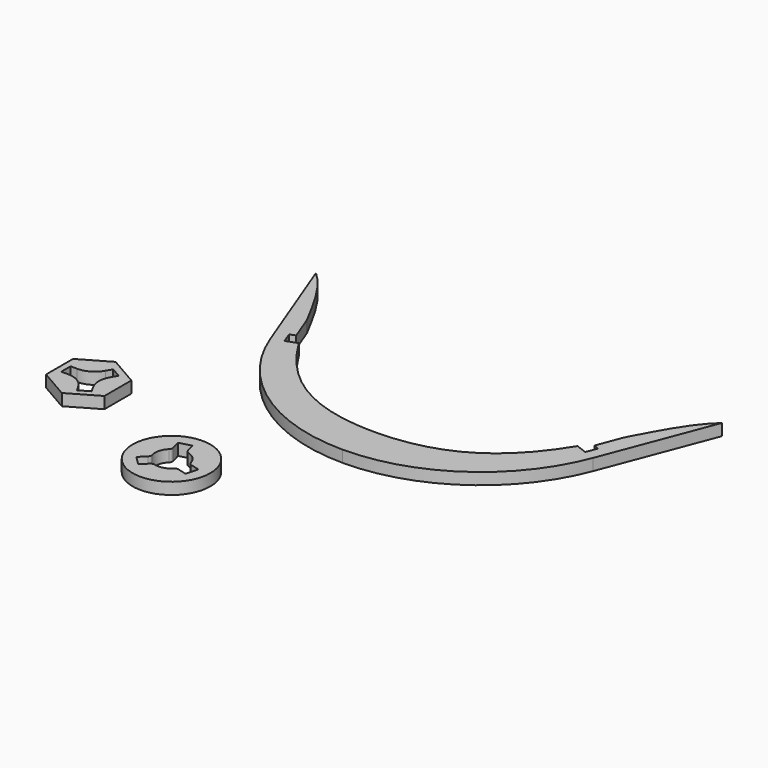
from build123d import *

# Parameters (mm, degrees)
F1_DEPTH = 3
F2_R     = 6
F5_DEPTH = 3
F6_R     = 9.9948698969
F7_DEPTH = 3
F8_R     = 1


with BuildPart() as f1:
    # F0 (on Top) → F1 (new body)
    with BuildSketch(Plane.XY):
        with BuildLine():
            add(Edge.make_bspline(
                [(-52.1936073571, 46.6457645564), (-47.6554851248, 42.5900153585), (-44.4048403776, 36.2283632752), (-40.8247886844, 29.4929830615)],
                knots=[0, 0, 0, 0, 22.7977816795, 22.7977816795, 22.7977816795, 22.7977816795], degree=3))
            Line((-52.1936073571, 46.6457645564), (-41.4603734854, 18.5455618145))
            ThreePointArc((-41.4603734854, 18.5455618145), (-25.1684905629, -2.1735358695), (0, -10))
            Line((0, -10), (0, 0))
            add(Edge.make_bspline(
                [(-0.0969811924, 8.0723e-05), (-0.0646814008, 2.69207e-05), (-0.0323543475, 0), (0, 0)],
                knots=[69.9378881624, 69.9378881624, 69.9378881624, 69.9378881624, 70, 70, 70, 70], degree=3))
            add(Edge.make_bspline(
                [(-35.8553334484, 20.6864789506), (-29.041090153, 9.7405323449), (-19.4753714242, 0.0323596164), (-0.0969811924, 8.0723e-05)],
                knots=[32.6736407865, 32.6736407865, 32.6736407865, 32.6736407865, 69.9378881624, 69.9378881624, 69.9378881624, 69.9378881624], degree=3))
            Line((-35.8553334484, 20.6864789506), (-37.2565934576, 20.1512496665))
            Line((-37.2565934576, 20.1512496665), (-38.6578534669, 19.6160203825))
            Line((-38.6578534669, 19.6160203825), (-39.7283120349, 22.418540401))
            Line((-39.7283120349, 22.418540401), (-38.3270520257, 22.953769685))
            Line((-38.3270520257, 22.953769685), (-40.8247886844, 29.4929830615))
        make_face()
    extrude(amount=F1_DEPTH)

    # F2
    f2_edges = [f1.edges().sort_by_distance(p)[0] for p in [
        (-40.824789, 29.492983, 1.5),
    ]]
    fillet(f2_edges, radius=F2_R)

    # F3: F1 across face


with BuildPart() as f1_1:
    add(f1.part)
    add(f1.part.mirror(Plane(origin=(0, -5, 1.5), x_dir=(0, 1, 0), z_dir=(1, 0, 0))))


with BuildPart() as f5:
    # F4 (on Top) → F5 (new body)
    with BuildSketch(Plane.XY):
        Polygon((-51.952010545, -12.999056554), (-59.452010545, -8.6689295351), (-66.952010545, -12.999056554), (-66.952010545, -21.6593105919), (-59.452010545, -25.9894376108), (-51.952010545, -21.6593105919), align=None)
        with BuildLine():
            ThreePointArc((-63.6840613526, -15.829183573), (-60.7510486507, -15.079183573), (-58.6350232469, -12.9141200635))
            Line((-58.6350232469, -12.9141200635), (-57.8180359488, -11.499056554))
            Line((-57.8180359488, -11.499056554), (-55.2199597374, -12.999056554))
            Line((-55.2199597374, -12.999056554), (-56.0369470355, -14.4141200635))
            ThreePointArc((-56.0369470355, -14.4141200635), (-56.8539343336, -17.329183573), (-56.0369470355, -20.2442470824))
            Line((-56.0369470355, -20.2442470824), (-55.2199597374, -21.6593105919))
            Line((-55.2199597374, -21.6593105919), (-57.8180359488, -23.1593105919))
            Line((-57.8180359488, -23.1593105919), (-58.6350232469, -21.7442470824))
            ThreePointArc((-58.6350232469, -21.7442470824), (-60.7510486507, -19.579183573), (-63.6840613526, -18.829183573))
            Line((-63.6840613526, -18.829183573), (-65.3180359488, -18.829183573))
            Line((-65.3180359488, -18.829183573), (-65.3180359488, -15.829183573))
            Line((-65.3180359488, -15.829183573), (-63.6840613526, -15.829183573))
        make_face(mode=Mode.SUBTRACT)
    extrude(amount=F5_DEPTH)


with BuildPart() as f7:
    # F6 (on Top) → F7 (new body)
    with BuildSketch(Plane.XY):
        with Locations((-24.3696505876, -34.5736941158)):
            Circle(F6_R)
        Polygon((-22.319488679, -26.8461601743), (-16.6523289313, -32.4854194397), (-17.2671143966, -34.8026879101), (-18.0877053746, -37.8956849109), (-18.7024908399, -40.2129533813), (-26.4198124961, -42.3012280573), (-28.1192331262, -40.6101739913), (-30.3875516137, -38.3530228579), (-32.0869722438, -36.6619687919), (-30.0368103352, -28.9344348503), (-27.7226042399, -28.308220446), (-24.6336947744, -27.4723745786), align=None, mode=Mode.SUBTRACT)
        with BuildLine():
            Line((-26.9389987392, -31.2040730699), (-27.7226042399, -28.308220446))
            Line((-27.7226042399, -28.308220446), (-30.0368103352, -28.9344348503))
            Line((-30.0368103352, -28.9344348503), (-32.0869722438, -36.6619687919))
            Line((-32.0869722438, -36.6619687919), (-30.3875516137, -38.3530228579))
            Line((-30.3875516137, -38.3530228579), (-28.2714724262, -36.2264742758))
            ThreePointArc((-28.2714724262, -36.2264742758), (-28.4653970066, -33.4870675983), (-26.9389987392, -31.2040730699))
        make_face()
        with BuildLine():
            Line((-17.2671143966, -34.8026879101), (-16.6523289313, -32.4854194397))
            Line((-16.6523289313, -32.4854194397), (-22.319488679, -26.8461601743))
            Line((-22.319488679, -26.8461601743), (-24.6336947744, -27.4723745786))
            Line((-24.6336947744, -27.4723745786), (-23.8500892737, -30.3682272025))
            ThreePointArc((-23.8500892737, -30.3682272025), (-21.3807312095, -31.5699869282), (-20.1667990848, -34.0333838683))
            Line((-20.1667990848, -34.0333838683), (-17.2671143966, -34.8026879101))
        make_face()
        with BuildLine():
            Line((-18.7024908399, -40.2129533813), (-18.0877053746, -37.8956849109))
            Line((-18.0877053746, -37.8956849109), (-20.9873900628, -37.126380869))
            ThreePointArc((-20.9873900628, -37.126380869), (-23.2628235466, -38.6640278209), (-26.0031539386, -38.4836254093))
            Line((-26.0031539386, -38.4836254093), (-28.1192331262, -40.6101739913))
            Line((-28.1192331262, -40.6101739913), (-26.4198124961, -42.3012280573))
            Line((-26.4198124961, -42.3012280573), (-18.7024908399, -40.2129533813))
        make_face()
    extrude(amount=F7_DEPTH)

    # F8
    f8_edges = [f7.edges().sort_by_distance(p)[0] for p in [
        (-20.166799, -34.033384, 1.5),
        (-23.850089, -30.368227, 1.5),
        (-26.938999, -31.204073, 1.5),
        (-28.271472, -36.226474, 1.5),
        (-26.003154, -38.483625, 1.5),
        (-20.98739, -37.126381, 1.5),
    ]]
    fillet(f8_edges, radius=F8_R)


solid = Compound([f1_1.part, f5.part, f7.part])
